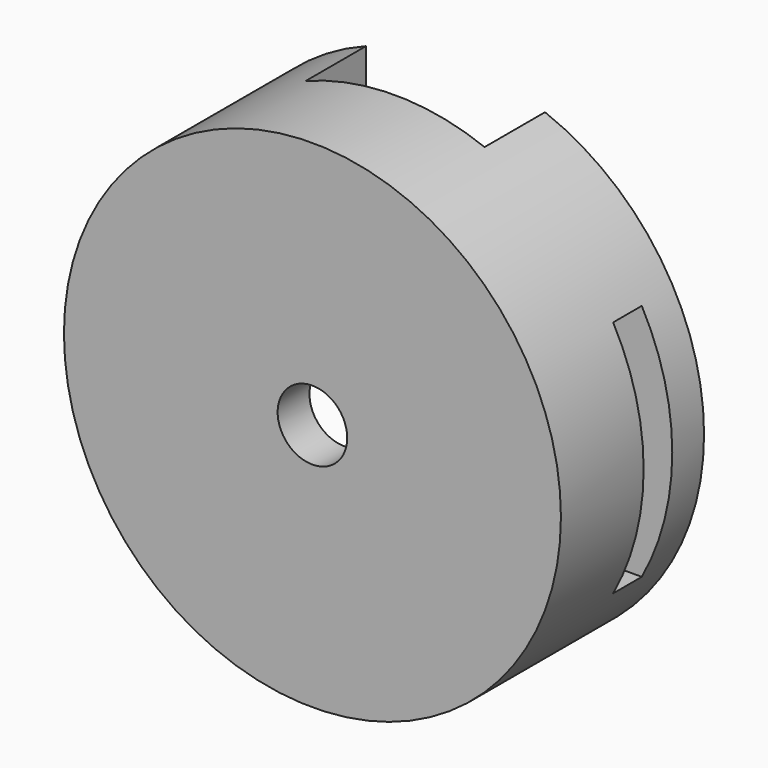
from build123d import *

# Parameters (mm, degrees)
F0_R     = 12.5
F0_R_2   = 10.5
F0_R_3   = 1.75
F1_DEPTH = 2
F2_DEPTH = 7
F3_W     = 9
F3_H     = 1.8
F3_H_2   = 5.8387092426
F4_DEPTH = 15
F3_W_2   = 10.5
F3_H_3   = 0.2
F5_DEPTH = 6


with BuildPart() as f1:
    # F0 (on Front) → F1 (new body)
    with BuildSketch(Plane.XZ):
        Circle(F0_R)
        Circle(F0_R_2, mode=Mode.SUBTRACT)
        Circle(F0_R_2)
        Circle(F0_R_3, mode=Mode.SUBTRACT)
    extrude(amount=F1_DEPTH)

    # F0 (on Front) → F2 (join)
    with BuildSketch(Plane.XZ):
        Circle(F0_R)
        Circle(F0_R_2, mode=Mode.SUBTRACT)
    extrude(amount=-F2_DEPTH)

    # F3 (on Top) → F4 (cut, symmetric)
    with BuildSketch(Plane.XY):
        with Locations((0, 4.1)):
            Rectangle(F3_W, F3_H)
        with Locations((0, 7.9193546213)):
            Rectangle(F3_W, F3_H_2)
    extrude(amount=F4_DEPTH, both=True, mode=Mode.SUBTRACT)

    # F3 (on Top) → F5 (cut, symmetric)
    with BuildSketch(Plane.XY):
        with Locations((-9.75, 4.1)):
            Rectangle(F3_W_2, F3_H)
        with Locations((0, 7.9193546213)):
            Rectangle(F3_W, F3_H_2)
        with Locations((0, 4.1)):
            Rectangle(F3_W, F3_H)
        with Locations((9.75, 4.1)):
            Rectangle(F3_W_2, F3_H)
        with Locations((0, 3.1)):
            Rectangle(F3_W, F3_H_3)
    extrude(amount=F5_DEPTH, both=True, mode=Mode.SUBTRACT)


solid = f1.part
